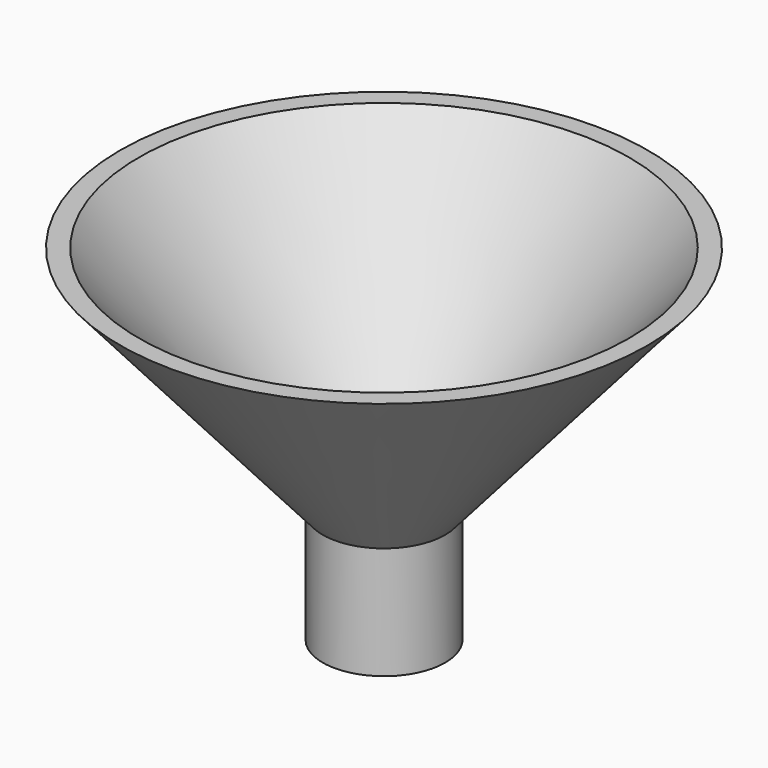
from build123d import *

# Parameters (mm, degrees)
F2_R     = 11.026027
F3_DEPTH = 50.8


with BuildPart() as f1:
    # F0 (on Front) → F1 (revolve)
    with BuildSketch(Plane.XZ):
        Polygon((-2.470291, 8.646021), (-15.096227, 8.646021), (-15.096227, -19.076141), (0, -19.076141), (0, 8.646021), (49.954783, 66.011682), (45.288678, 66.011682), align=None)
    revolve(axis=Axis((-15.096227, 0, -5.21506), (0, 0, -1)))

    # F2 (on face) → F3 (cut)
    with BuildSketch(Plane(origin=(0, 0, -19.076141), x_dir=(1, 0, 0), z_dir=(0, 0, -1))):
        with Locations((-15.096227, 0)):
            Circle(F2_R)
    extrude(amount=-F3_DEPTH, mode=Mode.SUBTRACT)


solid = f1.part
